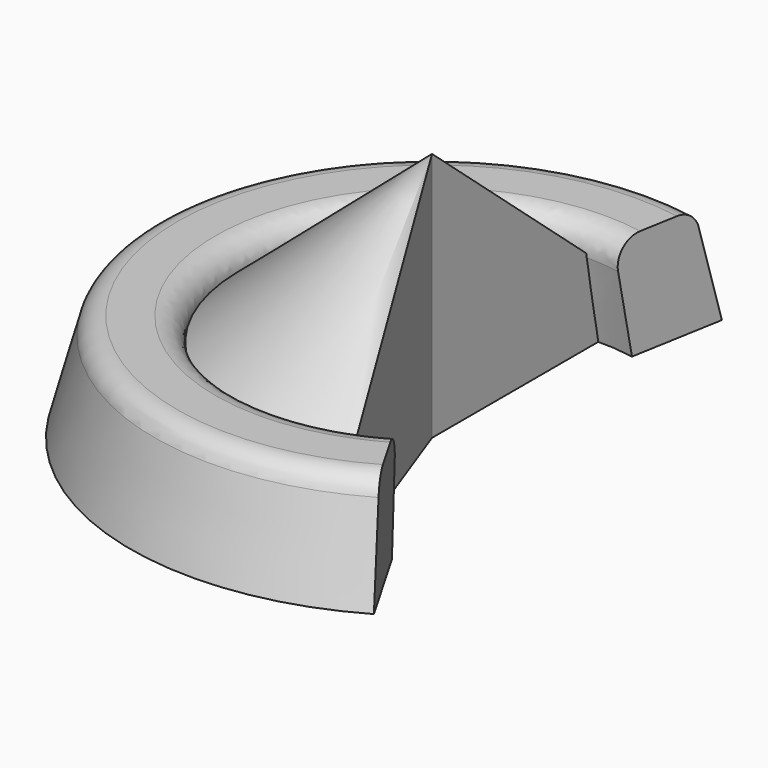
from build123d import *

# Parameters (mm, degrees)
F1_ANGLE      = 200
F2_ANGLE_BACK = 10
F2_ANGLE      = 220
F3_R          = 1.27


with BuildPart() as f1:
    # F0 (on Right) → F1 (revolve)
    with BuildSketch(Plane.YZ):
        Polygon((0, 13.5764918386), (0, 0), (11.2961860424, 0), (10.468687552, 4.572), align=None)
    revolve(axis=Axis((0, 0, 6.7882459193), (0, 0, 1)), revolution_arc=F1_ANGLE)


with BuildPart() as f2:
    # F0 (on Right) → F2 (revolve)
    with BuildSketch(Plane.YZ, mode=Mode.PRIVATE) as f2_sk:
        Polygon((10.468687552, 4.572), (11.2961860424, 0), (16.3761860424, 0), (14.8108268602, 5.842), (10.2388268602, 5.842), align=None)
    revolve(f2_sk.sketch.rotate(Axis((0, 0, 6.7882459193), (0, 0, 1)), -F2_ANGLE_BACK), axis=Axis((0, 0, 6.7882459193), (0, 0, 1)), revolution_arc=F2_ANGLE)

    # F3
    f3_edges = [f2.edges().sort_by_distance(p)[0] for p in [
        (-10.083276, -1.777954, 5.842),
        (-14.585817, -2.571873, 5.842),
    ]]
    fillet(f3_edges, radius=F3_R)


solid = Compound([f1.part, f2.part])
